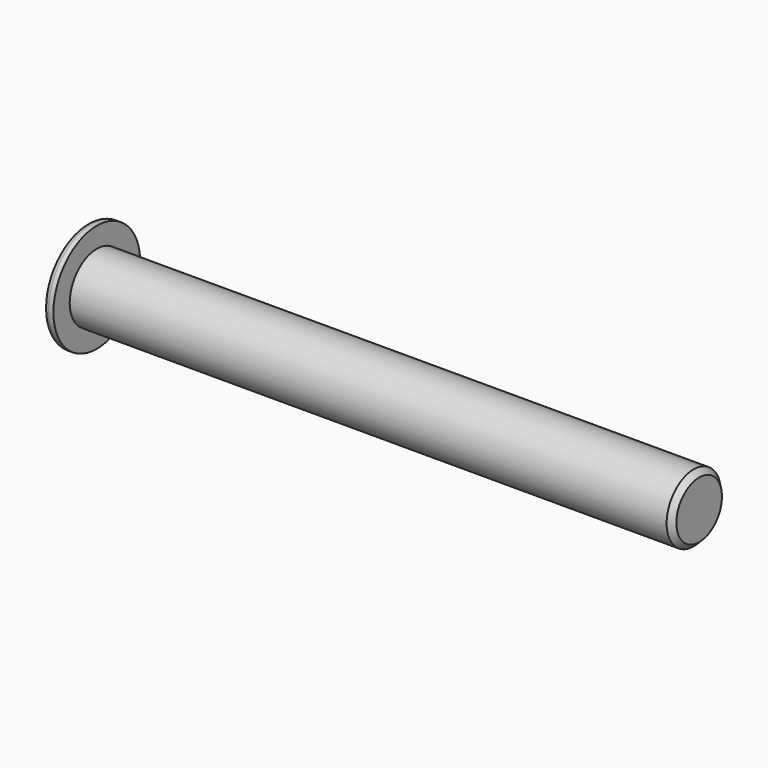
from build123d import *

# Parameters (mm, degrees)
F2_SIZE2 = 0.8
F2_SIZE  = 0.8
F3_R     = 0.8
F5_DEPTH = 6.4


with BuildPart() as f1:
    # F0 (on Top) → F1 (revolve)
    with BuildSketch(Plane.XY):
        Polygon((90.3, 0), (0, 0), (0, -8), (1.5, -8), (1.5, -5), (90.3, -5), align=None)
    revolve(axis=Axis((45.15, 0, 0), (1, 0, 0)))

    # F2
    f2_edges = [f1.edges().sort_by_distance(p)[0] for p in [
        (90.3, 5, 0),
    ]]
    chamfer(f2_edges, length=F2_SIZE, length2=F2_SIZE2)

    # F3
    f3_edges = [f1.edges().sort_by_distance(p)[0] for p in [
        (0, 8, 0),
    ]]
    fillet(f3_edges, radius=F3_R)

    # F4 (on face) → F5 (cut)
    with BuildSketch(Plane(origin=(0, 0, 0), x_dir=(0, -1, 0), z_dir=(-1, 0, 0))):
        Polygon((2.502813, -1.445), (2.502813, 1.445), (0, 2.89), (-2.502813, 1.445), (-2.502813, -1.445), (0, -2.89), align=None)
    extrude(amount=-F5_DEPTH, mode=Mode.SUBTRACT)


solid = f1.part
